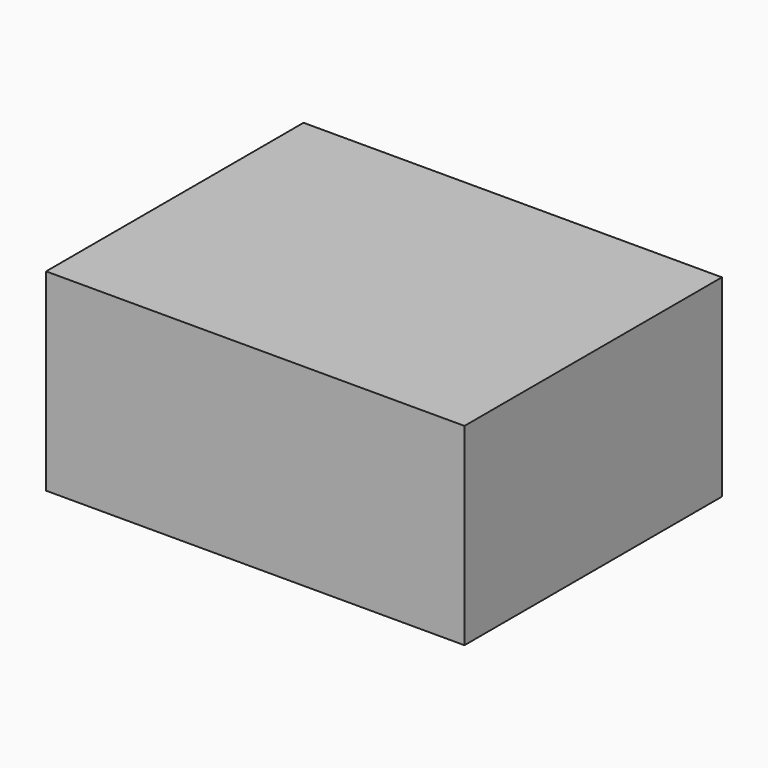
from build123d import *

# Parameters (mm, degrees)
SKETCH_W  = 65
SKETCH_H  = 50
PAD_DEPTH = 30


with BuildPart() as part:
    # Sketch → Pad (new body)
    with BuildSketch(Plane.XY):
        with Locations((32.5, 25)):
            Rectangle(SKETCH_W, SKETCH_H)
    extrude(amount=PAD_DEPTH)


solid = part.part
